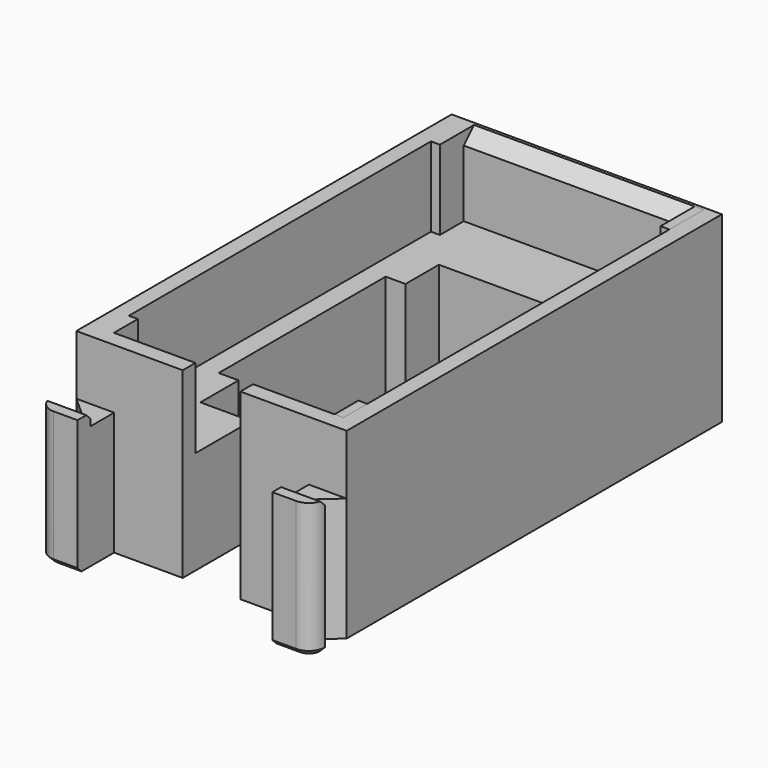
from build123d import *

# Parameters (mm, degrees)
PAD_DEPTH       = 18.4
BOX_W           = 100
BOX_H           = 10
BOX_DEPTH       = 10
BOX001_W        = 24
BOX001_H        = 44
BOX001_DEPTH    = 100
BOX002_W        = 20
BOX002_H        = 21
BOX002_DEPTH    = 100
PAD001_DEPTH    = 1.2
BOX003_W        = 1.1
BOX003_H        = 3
BOX003_DEPTH    = 8
BOX004_W        = 1.1
BOX004_H        = 3
BOX004_DEPTH    = 8
CHAMFER_SIZE    = 1.3
CHAMFER001_SIZE = 0.5
CHAMFER002_SIZE = 0.5


with BuildPart() as body:
    # Sketch → Pad (new body)
    with BuildSketch(Plane.XY):
        with BuildLine():
            Line((-11.8, 0), (-11.8, -1.4))
            Line((-11.8, -1.4), (-13.8, -1.4))
            ThreePointArc((-13.8, -1.4), (-13.331371, -2.531371), (-12.2, -3))
            Line((-12.2, -3), (-9.8, -3))
            Line((-9.8, -3), (-9.8, 1.6))
            Line((-9.8, 1.6), (-2.9, 1.6))
            Line((-2.9, 10.2), (-2.9, 1.6))
            Line((-8, 10.2), (-2.9, 10.2))
            Line((-8, 40.2), (-8, 10.2))
            Line((0, 40.2), (-8, 40.2))
            Line((0, 48.8), (0, 40.2))
            Line((-13.6, 48.8), (0, 48.8))
            Line((-13.6, 1.6), (-13.6, 48.8))
            Line((-11.8, 0), (-13.6, 1.6))
        make_face()
    pad = extrude(amount=PAD_DEPTH)

    # Mirrored: Pad across Sketch V_Axis
    add(pad.mirror(Plane(origin=(0, 0, 0), x_dir=(0, 0, 1), z_dir=(1, 0, 0))))

    # Box → Box (cut)
    with BuildSketch(Plane(origin=(50, 1.6, 12.4), x_dir=(-1, 0, 0), z_dir=(0, 0, 1))):
        with Locations((50, 5)):
            Rectangle(BOX_W, BOX_H)
    extrude(amount=BOX_DEPTH, mode=Mode.SUBTRACT)

    # Box001 → Box001 (cut)
    with BuildSketch(Plane(origin=(-12, 3.2, 10.4), x_dir=(1, 0, 0), z_dir=(0, 0, 1))):
        with Locations((12, 22)):
            Rectangle(BOX001_W, BOX001_H)
    extrude(amount=BOX001_DEPTH, mode=Mode.SUBTRACT)

    # Box002 → Box002 (cut)
    with BuildSketch(Plane(origin=(-10, 15, 0), x_dir=(1, 0, 0), z_dir=(0, 0, 1))):
        with Locations((10, 10.5)):
            Rectangle(BOX002_W, BOX002_H)
    extrude(amount=BOX002_DEPTH, mode=Mode.SUBTRACT)

    # Sketch001 → Pad001 (join)
    with BuildSketch(Plane.XY.offset(12.4)):
        with BuildLine():
            Line((-11.8, -1.4), (-13.8, -1.4))
            ThreePointArc((-13.8, -1.4), (-13.331371, -2.531371), (-12.2, -3))
            Line((-12.2, -3), (-9.8, -3))
            Line((-9.8, -3), (-9.8, -1.4))
            Line((-9.8, -1.4), (-11.8, -1.4))
        make_face()
    pad001 = extrude(amount=PAD001_DEPTH)

    # Mirrored001: Pad001 across Sketch001 V_Axis
    add(pad001.mirror(Plane(origin=(0, 0, 12.4), x_dir=(0, 0, 1), z_dir=(1, 0, 0))))

    # Box003 → Box003 (join)
    with BuildSketch(Plane(origin=(11.1, 3.2, 10.4), x_dir=(1, 0, 0), z_dir=(0, 0, 1))):
        with Locations((0.55, 1.5)):
            Rectangle(BOX003_W, BOX003_H)
    extrude(amount=BOX003_DEPTH)

    # Box004 → Box004 (join)
    with BuildSketch(Plane(origin=(11.1, 44.2, 10.4), x_dir=(1, 0, 0), z_dir=(0, 0, 1))):
        with Locations((0.55, 1.5)):
            Rectangle(BOX004_W, BOX004_H)
    extrude(amount=BOX004_DEPTH)

    # Chamfer
    chamfer_edges = [body.edges().sort_by_distance(p)[0] for p in [
        (-6, 47.2, 18.4),
        (5.55, 47.2, 18.4),
    ]]
    chamfer(chamfer_edges, length=CHAMFER_SIZE)

    # Chamfer001
    chamfer001_edges = [body.edges().sort_by_distance(p)[0] for p in [
        (-11, -3, 0),
        (11, -3, 0),
    ]]
    chamfer(chamfer001_edges, length=CHAMFER001_SIZE)

    # Chamfer002
    chamfer002_edges = [body.edges().sort_by_distance(p)[0] for p in [
        (10.8, -1.4, 13.6),
        (-10.8, -1.4, 13.6),
    ]]
    chamfer(chamfer002_edges, length=CHAMFER002_SIZE)


with BuildPart() as hub_bottom:
    # Body001 base: copy of Body
    add(body.part)


with BuildPart() as hub_top:
    # Mirror: instance of Body
    add(body.part.mirror(Plane(origin=(0, 0, 0), x_dir=(0, -1, 0), z_dir=(1, 0, 0))))


solid = Compound([hub_bottom.part, hub_top.part])
